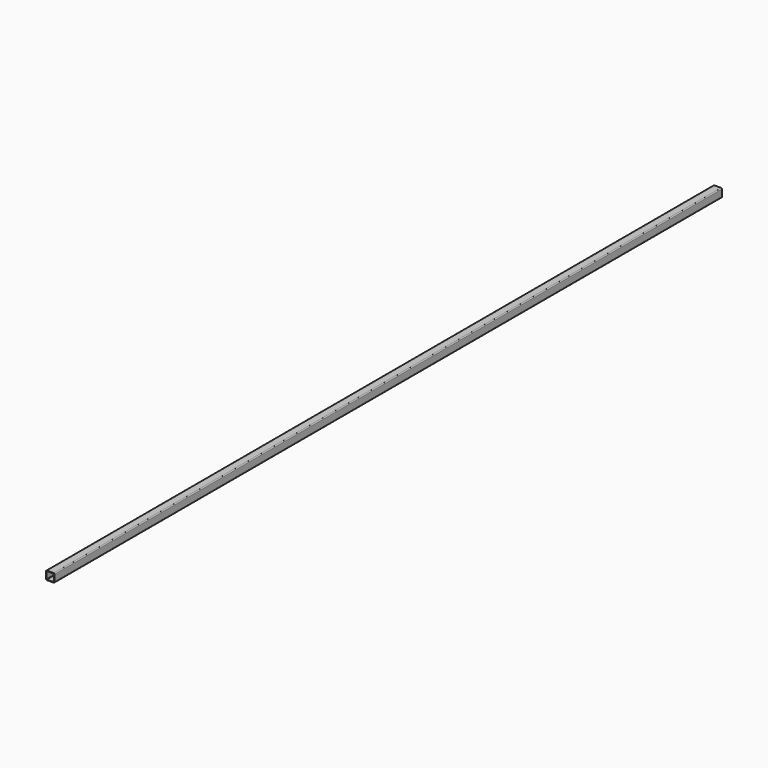
from build123d import *

# Parameters (mm, degrees)
F1_DEPTH = 1237.5


with BuildPart() as f1:
    # F0 (on Front) → F1 (new body, symmetric)
    with BuildSketch(Plane.XZ):
        with BuildLine():
            ThreePointArc((12.5, 10), (11.767766953, 11.767766953), (10, 12.5))
            Line((10, 12.5), (-10, 12.5))
            ThreePointArc((-10, 12.5), (-11.767766953, 11.767766953), (-12.5, 10))
            Line((-12.5, 10), (-12.5, -10))
            ThreePointArc((-12.5, -10), (-11.767766953, -11.767766953), (-10, -12.5))
            Line((-10, -12.5), (10, -12.5))
            ThreePointArc((10, -12.5), (11.767766953, -11.767766953), (12.5, -10))
            Line((12.5, -10), (12.5, 10))
        make_face()
        with BuildLine():
            ThreePointArc((10, 11), (10.7071067812, 10.7071067812), (11, 10))
            Line((11, 10), (11, -10))
            ThreePointArc((11, -10), (10.7071067812, -10.7071067812), (10, -11))
            Line((10, -11), (-10, -11))
            ThreePointArc((-10, -11), (-10.7071067812, -10.7071067812), (-11, -10))
            Line((-11, -10), (-11, 10))
            ThreePointArc((-11, 10), (-10.7071067812, 10.7071067812), (-10, 11))
            Line((-10, 11), (10, 11))
        make_face(mode=Mode.SUBTRACT)
    extrude(amount=F1_DEPTH, both=True)


solid = f1.part
